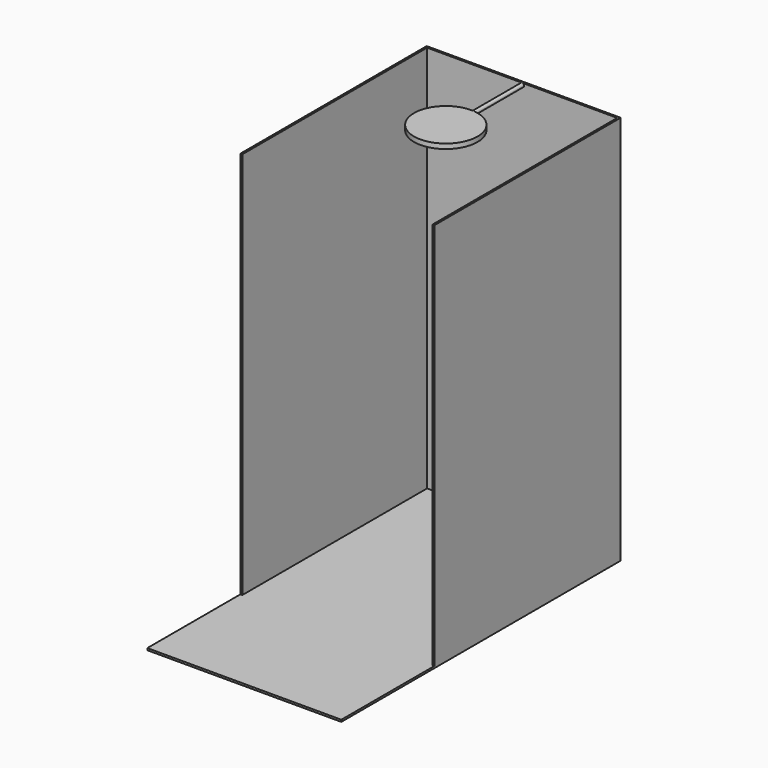
from build123d import *

# Parameters (mm, degrees)
F0_W     = 1000
F0_H     = 1800
F1_DEPTH = 10
F2_W     = 1000
F2_H     = 1200
F3_DEPTH = 2000
F4_W     = 980
F4_H     = 1190
F5_DEPTH = 2000
F7_R     = 10
F8_DEPTH = 500
F6_R     = 163.755142
F9_DEPTH = 25


with BuildPart() as f1:
    # F0 (on Top) → F1 (new body)
    with BuildSketch(Plane.XY):
        with Locations((500, -900)):
            Rectangle(F0_W, F0_H)
    extrude(amount=F1_DEPTH)

    # F2 (on face) → F3 (join)
    with BuildSketch(Plane.XY.offset(10)):
        with Locations((500, -600)):
            Rectangle(F2_W, F2_H)
    extrude(amount=F3_DEPTH)

    # F4 (on face) → F5 (cut, through all)
    with BuildSketch(Plane.XY.offset(2010)):
        with Locations((500, -605)):
            Rectangle(F4_W, F4_H)
    extrude(amount=-F5_DEPTH, mode=Mode.SUBTRACT)

    # F7 (on face) → F8 (join)
    with BuildSketch(Plane(origin=(0, 0, 0), x_dir=(-1, 0, 0), z_dir=(0, 1, 0))):
        with Locations((-500, 2000)):
            Circle(F7_R)
    extrude(amount=-F8_DEPTH)

    # F6 (on face) → F9 (join)
    with BuildSketch(Plane.XY.offset(2010)):
        with Locations((488.594055, -487.569779)):
            Circle(F6_R)
    extrude(amount=-F9_DEPTH)


solid = f1.part
